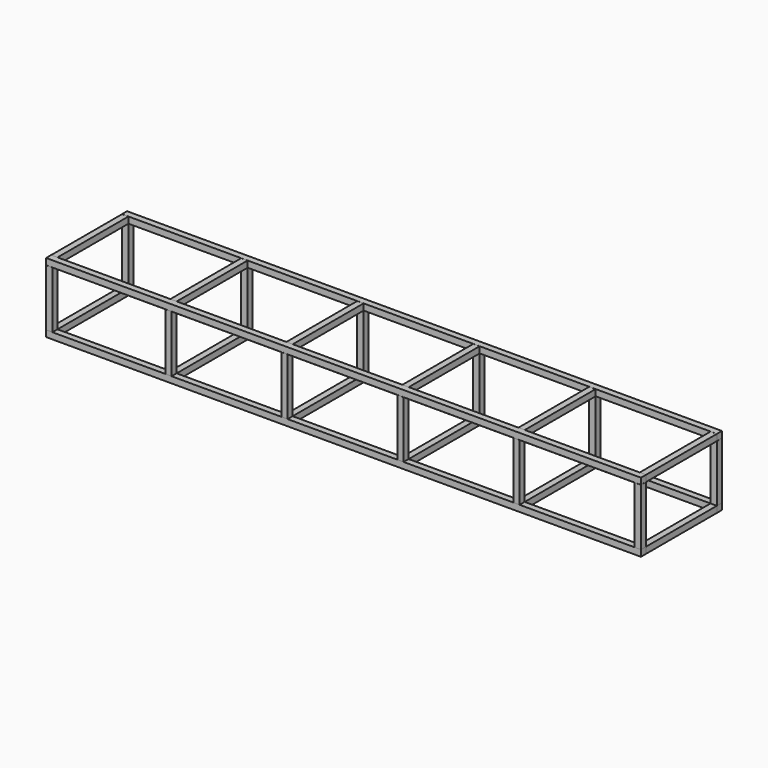
from build123d import *

# Parameters (mm, degrees)
F0_W      = 7162.8
F0_H      = 76.2
F1_DEPTH  = 76.2
F2_W      = 7162.8
F2_H      = 76.2
F3_DEPTH  = 76.2
F4_W      = 76.2
F4_H      = 685.8
F5_DEPTH  = 76.2
F12_W     = 1066.8
F12_H     = 76.2
F13_DEPTH = 76.2


with BuildPart() as f1:
    # F0 (on Front) → F1 (new body)
    with BuildSketch(Plane.XZ):
        Rectangle(F0_W, F0_H)
    extrude(amount=F1_DEPTH)


with BuildPart() as f3:
    # F2 (on Front) → F3 (new body)
    with BuildSketch(Plane.XZ):
        with Locations((0, 762.7043709099)):
            Rectangle(F2_W, F2_H)
    extrude(amount=F3_DEPTH)


with BuildPart() as f5:
    # F4 (on Front) → F5 (new body)
    with BuildSketch(Plane.XZ):
        with Locations((-3543.2884735107, 381.025384599)):
            Rectangle(F4_W, F4_H)
    extrude(amount=F5_DEPTH)


with BuildPart() as f6_1:
    # F6: copy of F5
    add(f5.part.moved(Location((1435.1, 0, 0))))


with BuildPart() as f7_1:
    # F7: copy of F6_1
    add(f6_1.part.moved(Location((1397, 0, 0))))


with BuildPart() as f8_1:
    # F8: copy of F7_1
    add(f7_1.part.moved(Location((1397, 0, 0))))


with BuildPart() as f9_1:
    # F9: copy of F8_1
    add(f8_1.part.moved(Location((1397, 0, 0))))


with BuildPart() as f10_1:
    # F10: copy of F9_1
    add(f9_1.part.moved(Location((1460.5, 0, 0))))


with BuildPart() as f11_1:
    # F11: copy of F9_1
    add(f9_1.part.moved(Location((0, 1143, 0))))


with BuildPart() as f11_2:
    # F11: copy of F8_1
    add(f8_1.part.moved(Location((0, 1143, 0))))


with BuildPart() as f11_3:
    # F11: copy of F3
    add(f3.part.moved(Location((0, 1143, 0))))


with BuildPart() as f11_4:
    # F11: copy of F5
    add(f5.part.moved(Location((0, 1143, 0))))


with BuildPart() as f11_5:
    # F11: copy of F1
    add(f1.part.moved(Location((0, 1143, 0))))


with BuildPart() as f11_6:
    # F11: copy of F7_1
    add(f7_1.part.moved(Location((0, 1143, 0))))


with BuildPart() as f11_7:
    # F11: copy of F6_1
    add(f6_1.part.moved(Location((0, 1143, 0))))


with BuildPart() as f11_8:
    # F11: copy of F10_1
    add(f10_1.part.moved(Location((0, 1143, 0))))


with BuildPart() as f13:
    # F12 (on face) → F13 (new body)
    with BuildSketch(Plane.YZ.offset(3581.4)):
        with Locations((533.4, 0)):
            Rectangle(F12_W, F12_H)
    extrude(amount=-F13_DEPTH)


with BuildPart() as f14_1:
    # F14: copy of F13
    add(f13.part.moved(Location((-7086.6, 0, 0))))


with BuildPart() as f15_1:
    # F15: copy of F14_1
    add(f14_1.part.moved(Location((1435.1, 0, 0))))


with BuildPart() as f16_1:
    # F16: copy of F15_1
    add(f15_1.part.moved(Location((1397, 0, 0))))


with BuildPart() as f17_1:
    # F17: copy of F16_1
    add(f16_1.part.moved(Location((1397, 0, 0))))


with BuildPart() as f18_1:
    # F18: copy of F17_1
    add(f17_1.part.moved(Location((1397, 0, 0))))


with BuildPart() as f19_1:
    # F19: copy of F16_1
    add(f16_1.part.moved(Location((0, 0, 762))))


with BuildPart() as f19_2:
    # F19: copy of F18_1
    add(f18_1.part.moved(Location((0, 0, 762))))


with BuildPart() as f19_3:
    # F19: copy of F14_1
    add(f14_1.part.moved(Location((0, 0, 762))))


with BuildPart() as f19_4:
    # F19: copy of F15_1
    add(f15_1.part.moved(Location((0, 0, 762))))


with BuildPart() as f19_5:
    # F19: copy of F13
    add(f13.part.moved(Location((0, 0, 762))))


with BuildPart() as f19_6:
    # F19: copy of F17_1
    add(f17_1.part.moved(Location((0, 0, 762))))


solid = Compound([f1.part, f3.part, f5.part, f6_1.part, f7_1.part, f8_1.part, f9_1.part, f10_1.part, f11_1.part, f11_2.part, f11_3.part, f11_4.part, f11_5.part, f11_6.part, f11_7.part, f11_8.part, f13.part, f14_1.part, f15_1.part, f16_1.part, f17_1.part, f18_1.part, f19_1.part, f19_2.part, f19_3.part, f19_4.part, f19_5.part, f19_6.part])
